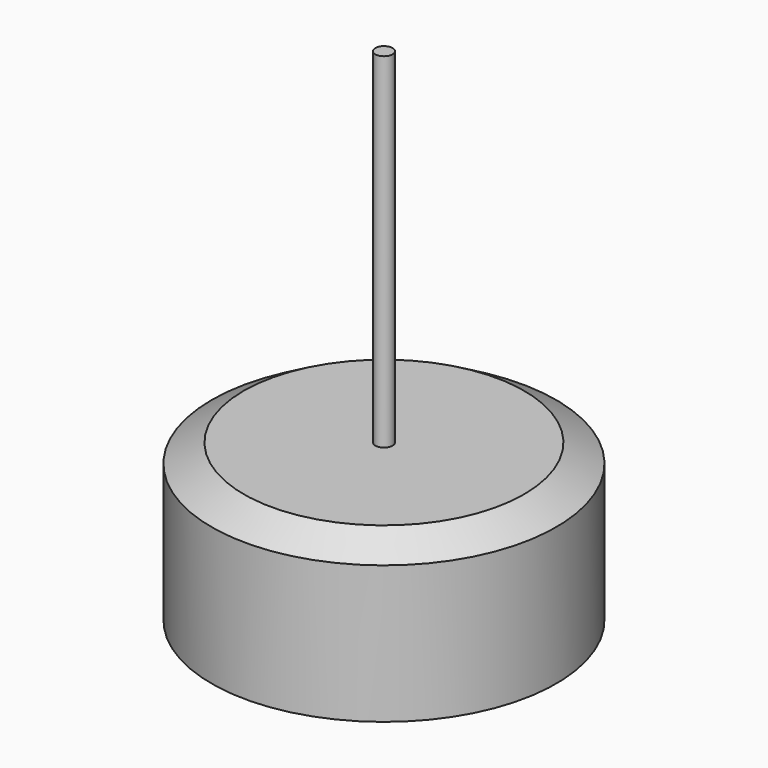
from build123d import *

# Parameters (mm, degrees)
F0_W   = 0.5
F0_H   = 20
F0_H_2 = 3
F0_H_3 = 1.0746234533


with BuildPart() as f1:
    # F0 (on Front) → F1 (revolve)
    with BuildSketch(Plane.XZ):
        with Locations((-20.8013077103, 19.0746234533)):
            Rectangle(F0_W, F0_H)
        Polygon((-21.0513077103, 8), (-30.5513077103, 8), (-30.5513077103, 0), (-21.0513077103, 0), (-21.0513077103, 5), align=None)
        Polygon((-28.6900052902, 9.0746234533), (-30.5513077103, 8), (-21.0513077103, 8), (-21.0513077103, 9.0746234533), align=None)
        with Locations((-20.8013077103, 6.5)):
            Rectangle(F0_W, F0_H_2)
        with Locations((-20.8013077103, 8.5373117267)):
            Rectangle(F0_W, F0_H_3)
    revolve(axis=Axis((-20.5513077103, 0, 19.0746234533), (0, 0, 1)))


solid = f1.part
